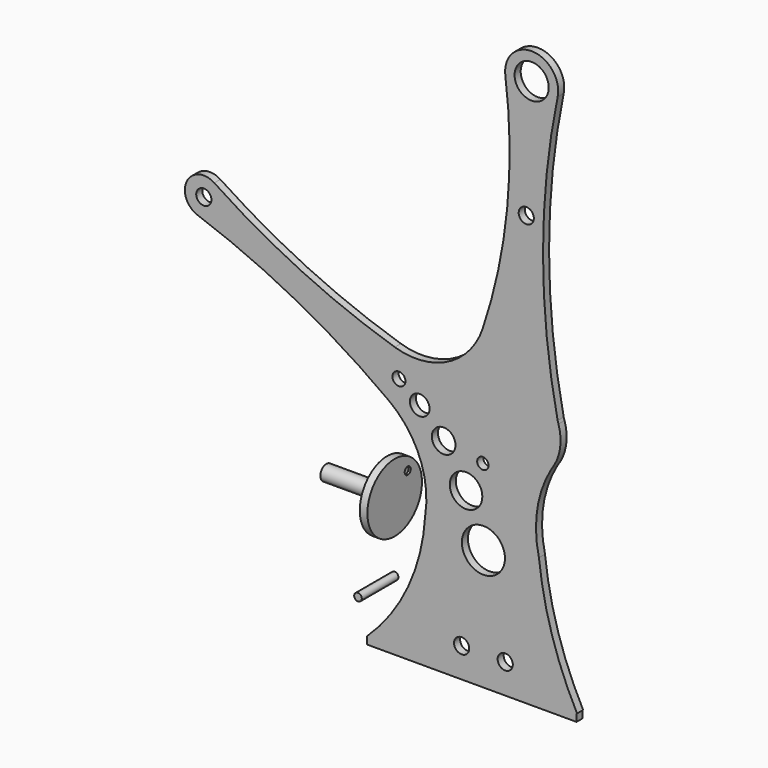
from build123d import *

# Parameters (mm, degrees)
F0_R      = 2
F0_R_2    = 5.677376
F0_R_3    = 4.29169
F0_R_4    = 3.118239
F0_R_5    = 1.71257
F0_R_6    = 2.595247
F0_R_7    = 1.5
F0_R_8    = 4.5
F0_W      = 55.190553
F0_H      = 2
F1_DEPTH  = 2
F4_R      = 1
F5_DEPTH  = 0.55
F8_DEPTH  = 0.55
F9_R      = 1
F10_DEPTH = 12.1


with BuildPart() as f1:
    # F0 (on Front) → F1 (new body)
    with BuildSketch(Plane.XZ):
        with BuildLine():
            ThreePointArc((0, 41.600476), (8.157917, 31.138253), (9.641756, 17.954629))
            ThreePointArc((9.641756, 17.954629), (5.154563, 0.035024), (-5.635959, -14.958701))
            Line((-5.635959, -14.958701), (49.554594, -14.958701))
            Line((49.554594, -14.958701), (49.69853, -14.958701))
            ThreePointArc((49.69853, -14.958701), (43.102022, 1.01882), (39.641756, 17.954629))
            ThreePointArc((39.641756, 17.954629), (39.20069, 29.126338), (42.960597, 39.655569))
            ThreePointArc((42.960597, 39.655569), (45.183806, 44.943707), (44.794475, 50.666949))
            ThreePointArc((44.794475, 50.666949), (44.685096, 51.019717), (44.575866, 51.372531))
            ThreePointArc((44.575866, 51.372531), (40.715332, 88.936437), (44.575866, 126.500342))
            ThreePointArc((44.575866, 126.500342), (37.986212, 134.919137), (30.780691, 127.021029))
            ThreePointArc((30.780691, 127.021029), (31.257206, 96.285679), (24.782057, 66.236365))
            ThreePointArc((24.782057, 66.236365), (15.607536, 55.631), (1.633307, 54.462014))
            ThreePointArc((1.633307, 54.462014), (-22.966894, 64.111596), (-45.974794, 77.108553))
            ThreePointArc((-45.974794, 77.108553), (-53.210231, 75.164761), (-50.394055, 68.222209))
            ThreePointArc((-50.394055, 68.222209), (-24.214088, 56.772014), (0, 41.600476))
        make_face()
        with Locations((19.25, -9.137886)):
            Circle(F0_R, mode=Mode.SUBTRACT)
        with Locations((30.75, -9.137886)):
            Circle(F0_R, mode=Mode.SUBTRACT)
        with Locations((25, 14.888397)):
            Circle(F0_R_2, mode=Mode.SUBTRACT)
        with Locations((20.415939, 27.266106)):
            Circle(F0_R_3, mode=Mode.SUBTRACT)
        with Locations((14.517837, 36.902443)):
            Circle(F0_R_4, mode=Mode.SUBTRACT)
        with Locations((2.721631, 47.452573)):
            Circle(F0_R_5, mode=Mode.SUBTRACT)
        with Locations((8.204374, 43.132834)):
            Circle(F0_R_6, mode=Mode.SUBTRACT)
        with Locations((24.85433, 35.041299)):
            Circle(F0_R_7, mode=Mode.SUBTRACT)
        with Locations((-48.733287, 72.938336)):
            Circle(F0_R, mode=Mode.SUBTRACT)
        with Locations((36.301211, 96.285679)):
            Circle(F0_R, mode=Mode.SUBTRACT)
        with Locations((37.722191, 127.924118)):
            Circle(F0_R_8, mode=Mode.SUBTRACT)
        with Locations((21.959317, -15.958701)):
            Rectangle(F0_W, F0_H)
    extrude(amount=F1_DEPTH)


with BuildPart() as f3:
    # F2 (on Front) → F3 (revolve)
    with BuildSketch(Plane.XZ):
        Polygon((-2, 9.184818), (0, 9.184818), (0, 18.184818), (-18, 18.184818), (-18, 16.184818), (-4, 16.184818), (-4, 13.684818), (-2, 13.684818), align=None)
    revolve(axis=Axis((-18.238114, 0, 18.184818), (-1, 0, 0)))

    # F4 (on face) → F5 (cut)
    with BuildSketch(Plane.YZ):
        with Locations((4.304045, 22.686757)):
            Circle(F4_R)
    extrude(amount=-F5_DEPTH, mode=Mode.SUBTRACT)


with BuildPart() as f7:
    # F6 (on Front) → F7 (revolve)
    with BuildSketch(Plane.XZ):
        Polygon((-18, 18.184818), (-18, 16.184818), (-2, 16.184818), (-2, 13.684818), (-2, 9.184818), (0, 9.184818), (0, 18.184818), align=None)
    revolve(axis=Axis((-10.073503, 0, 18.184818), (-1, 0, 0)))

    # F4 (on face) → F8 (cut)
    with BuildSketch(Plane.YZ):
        with Locations((4.304045, 22.686757)):
            Circle(F4_R)
    extrude(amount=-F8_DEPTH, mode=Mode.SUBTRACT)


with BuildPart() as f10:
    # F9 (on Front) → F10 (new body)
    with BuildSketch(Plane.XZ):
        Circle(F9_R)
    extrude(amount=F10_DEPTH)


solid = Compound([f1.part, f3.part, f7.part, f10.part])
